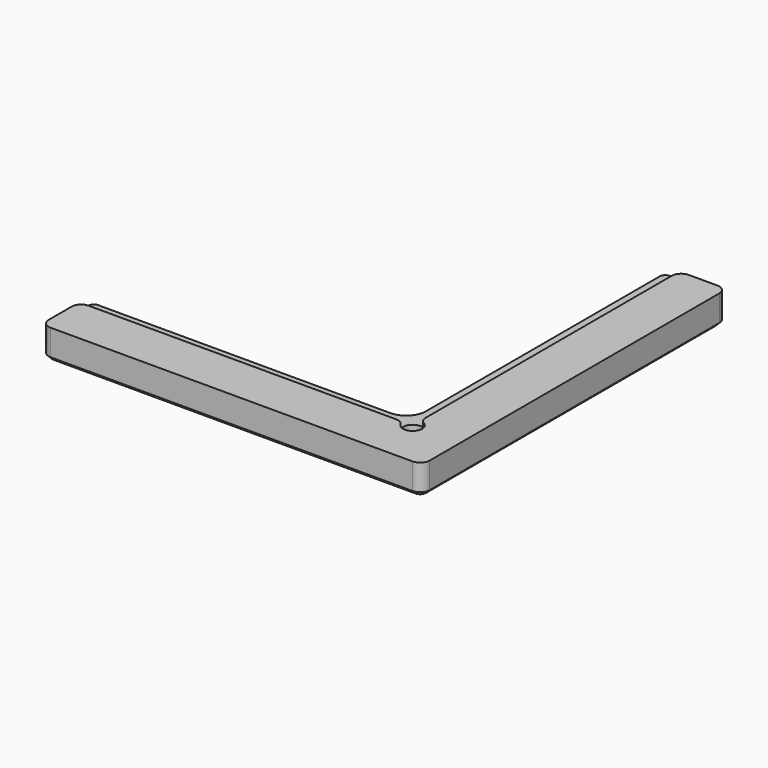
from build123d import *

# Parameters (mm, degrees)
F1_DEPTH = 8
F3_DEPTH = 1.4
F4_R     = 3
F5_DEPTH = 9.401
F6_R     = 5
F7_R     = 3
F8_SIZE  = 1.2
F9_SIZE  = 1.2


with BuildPart() as f1:
    # F0 (on Top) → F1 (new body)
    with BuildSketch(Plane.XY):
        Polygon((0, 0), (0, 120), (-20, 120), (-20, 20), (-120, 20), (-120, 0), align=None)
    extrude(amount=F1_DEPTH)

    # F2 (on face) → F3 (join)
    with BuildSketch(Plane.XY.offset(8)):
        Polygon((-120, 0), (0, 0), (0, 120), (-15, 120), (-15, 15), (-120, 15), align=None)
    extrude(amount=F3_DEPTH)

    # F4 (on face) → F5 (cut, through all)
    with BuildSketch(Plane.XY.offset(9.4)):
        with Locations((-15, 15)):
            Circle(F4_R)
    extrude(amount=-F5_DEPTH, mode=Mode.SUBTRACT)

    # F6
    f6_edges = [f1.edges().sort_by_distance(p)[0] for p in [
        (-20, 20, 4),
    ]]
    fillet(f6_edges, radius=F6_R)

    # F7
    f7_edges = [f1.edges().sort_by_distance(p)[0] for p in [
        (0, 0, 4.7),
        (0, 120, 4.7),
        (-20, 120, 4),
        (-120, 20, 4),
        (-120, 0, 4.7),
        (-120, 15, 8.7),
        (-15, 18, 8.7),
        (-18, 15, 8.7),
        (-15, 120, 8.7),
    ]]
    fillet(f7_edges, radius=F7_R)

    # F8
    f8_edges = [f1.edges().sort_by_distance(p)[0] for p in [
        (-20, 71, 8),
    ]]
    chamfer(f8_edges, length=F8_SIZE)

    # F9
    f9_edges = [f1.edges().sort_by_distance(p)[0] for p in [
        (-60, 0, 0),
        (-18, 15, 0),
    ]]
    chamfer(f9_edges, length=F9_SIZE)


solid = f1.part
